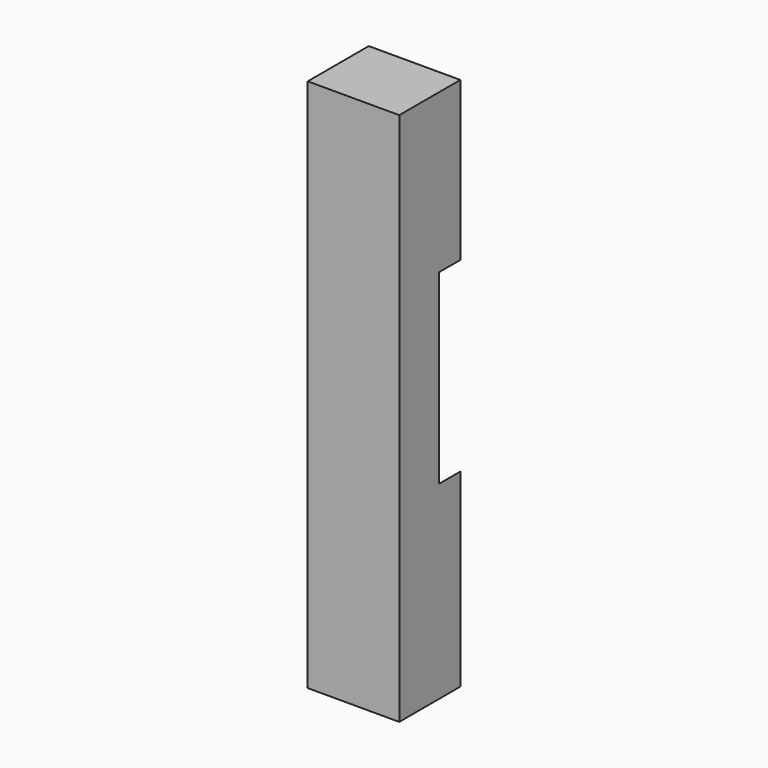
from build123d import *

# Parameters (mm, degrees)
F0_W     = 15.24
F0_H     = 88.9
F1_DEPTH = 12.7
F3_DEPTH = 4.445


with BuildPart() as f1:
    # F0 (on Front) → F1 (new body)
    with BuildSketch(Plane.XZ):
        with Locations((-7.62, -2.570109)):
            Rectangle(F0_W, F0_H)
    extrude(amount=F1_DEPTH)

    # F2 (on Front) → F3 (cut, symmetric)
    with BuildSketch(Plane.XZ):
        with BuildLine():
            add(Edge.make_bspline(
                [(-7.531847, -40.64), (6.58007, -40.64), (-0.475889, 20.32), (-7.531847, 81.28), (-14.587805, 20.32), (-21.643763, -40.64), (-7.531847, -40.64)],
                knots=[0, 0, 0, 2.094395, 2.094395, 4.18879, 4.18879, 6.283185, 6.283185, 6.283185], degree=2, weights=[1, 0.5, 1, 0.5, 1, 0.5, 1]))
        make_face()
    extrude(amount=F3_DEPTH, both=True, mode=Mode.SUBTRACT)


solid = f1.part
